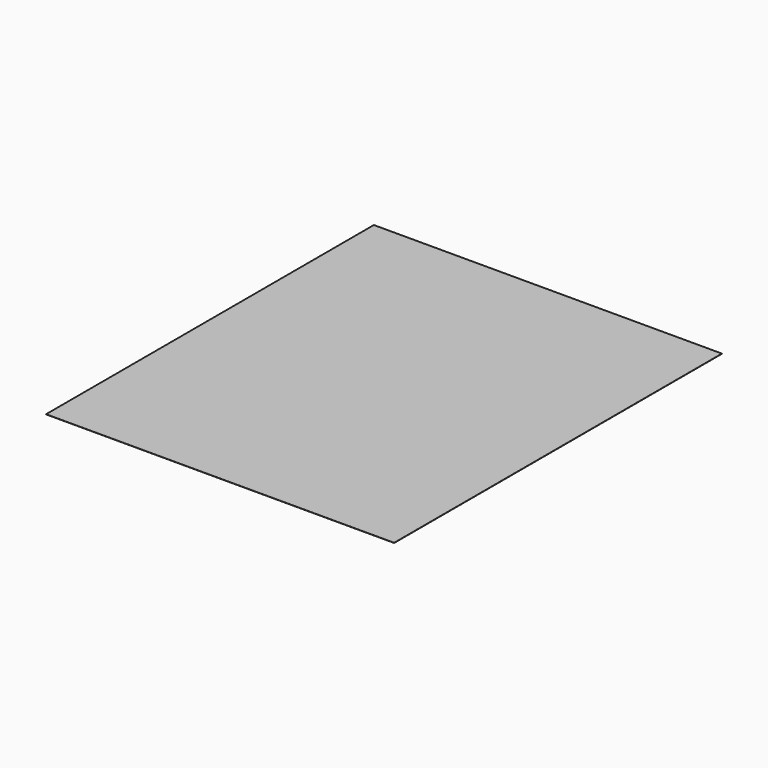
from build123d import *

# Parameters (mm, degrees)
F1_W     = 182.660475
F1_H     = 215.00735
F2_DEPTH = 0.1


with BuildPart() as f2:
    # F1 (on offset) → F2 (new body)
    with BuildSketch(Plane.XY.offset(-115)):
        with Locations((91.330237, 107.503675)):
            Rectangle(F1_W, F1_H)
    extrude(amount=F2_DEPTH)


solid = f2.part
